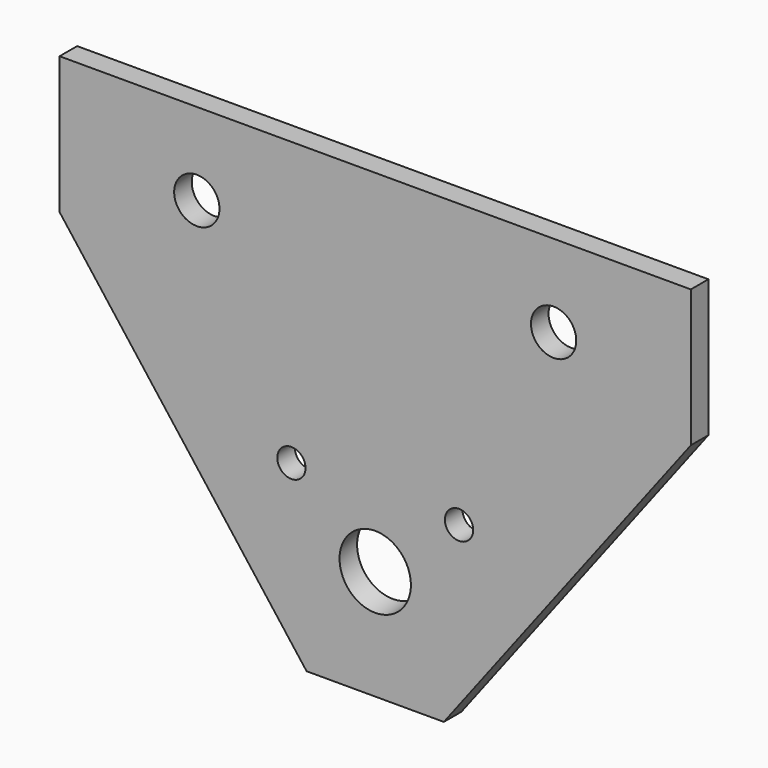
from build123d import *

# Parameters (mm, degrees)
F0_R     = 5.15
F0_R_2   = 13
F1_DEPTH = 8
F3_R     = 13
F4_DEPTH = 230
F5_DEPTH = 25


with BuildPart() as f1:
    # F0 (on Front) → F1 (new body)
    with BuildSketch(Plane.XZ):
        with BuildLine():
            Line((115, 67.621908), (0, 67.621908))
            Line((0, 67.621908), (-115, 67.621908))
            Line((-115, 67.621908), (-115, 37.621908))
            Line((-115, 37.621908), (-73.25, 37.621908))
            ThreePointArc((-73.25, 37.621908), (-65, 45.871908), (-56.75, 37.621908))
            Line((-56.75, 37.621908), (56.75, 37.621908))
            ThreePointArc((56.75, 37.621908), (65, 45.871908), (73.25, 37.621908))
            Line((73.25, 37.621908), (115, 37.621908))
            Line((115, 37.621908), (115, 67.621908))
        make_face()
        with BuildLine():
            Line((-73.25, 37.621908), (-115, 37.621908))
            Line((-115, 37.621908), (-115, 17.621908))
            Line((-115, 17.621908), (-25, -100.378092))
            Line((-25, -100.378092), (0, -100.378092))
            Line((0, -100.378092), (25, -100.378092))
            Line((25, -100.378092), (115, 17.621908))
            Line((115, 17.621908), (115, 37.621908))
            Line((115, 37.621908), (73.25, 37.621908))
            ThreePointArc((73.25, 37.621908), (65, 29.371908), (56.75, 37.621908))
            Line((56.75, 37.621908), (-56.75, 37.621908))
            ThreePointArc((-56.75, 37.621908), (-65, 29.371908), (-73.25, 37.621908))
        make_face()
        with Locations((-30.536113, -35.378092)):
            Circle(F0_R, mode=Mode.SUBTRACT)
        with Locations((0, -59.925269)):
            Circle(F0_R_2, mode=Mode.SUBTRACT)
        with Locations((30.536113, -35.378092)):
            Circle(F0_R, mode=Mode.SUBTRACT)
        with Locations((0, -59.925269)):
            Circle(F0_R_2)
    extrude(amount=F1_DEPTH)

    # F3 (on face) → F4 (cut)
    with BuildSketch(Plane(origin=(0, -8.760227, -1.309225), x_dir=(1, 0, 0), z_dir=(0, -0.989016, -0.147809))):
        with Locations((0, -58.5236)):
            Circle(F3_R)
    extrude(amount=F4_DEPTH, mode=Mode.SUBTRACT)

    # F3 (on face) → F5 (cut)
    with BuildSketch(Plane(origin=(0, -8.760227, -1.309225), x_dir=(1, 0, 0), z_dir=(0, -0.989016, -0.147809))):
        with Locations((0, -58.5236)):
            Circle(F3_R)
    extrude(amount=-F5_DEPTH, mode=Mode.SUBTRACT)


solid = f1.part
